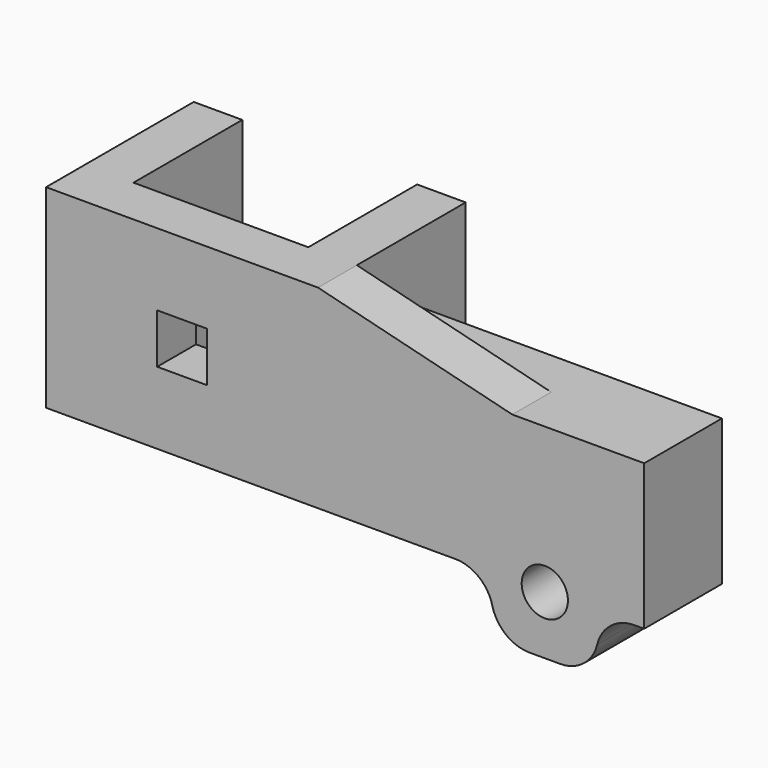
from build123d import *

# Parameters (mm, degrees)
F0_W      = 35.56
F0_H      = 32.258
F1_DEPTH  = 12.7
F2_R      = 3.25
F3_DEPTH  = 32.259
F4_W      = 6.5
F4_H      = 6.5
F5_DEPTH  = 25.4
F6_W      = 42.65
F6_H      = 12.7
F7_DEPTH  = 19.05
F9_DEPTH  = 6.35
F10_W     = 14
F10_H     = 12.7
F11_DEPTH = 7.62
F12_R     = 5
F13_R     = 3.025
F14_DEPTH = 12.701
F15_R     = 3.025
F16_DEPTH = 4
F17_R     = 5
F19_DEPTH = 50.8
F20_W     = 15.96225
F20_H     = 9.625087
F21_DEPTH = 50.8


with BuildPart() as f1:
    # F0 (on Top) → F1 (new body, symmetric)
    with BuildSketch(Plane.XY):
        Rectangle(F0_W, F0_H)
        Polygon((11.43, 9.779), (11.43, -9.779), (-11.43, -9.779), (-11.43, 9.779), (-7.366, 9.779), (-7.366, 3.937), (4.826, 3.937), (4.826, 9.779), align=None, mode=Mode.SUBTRACT)
    extrude(amount=F1_DEPTH, both=True)

    # F2 (on face) → F3 (cut, through all)
    with BuildSketch(Plane.XZ.offset(16.129)):
        Circle(F2_R)
    extrude(amount=-F3_DEPTH, mode=Mode.SUBTRACT)

    # F4 (on face) → F5 (cut)
    with BuildSketch(Plane.XZ.offset(16.129)):
        Rectangle(F4_W, F4_H)
    extrude(amount=-F5_DEPTH, mode=Mode.SUBTRACT)

    # F6 (on face) → F7 (join)
    with BuildSketch(Plane(origin=(0, 0, -12.7), x_dir=(1, 0, 0), z_dir=(0, 0, -1))):
        with Locations((39.105, 9.779)):
            Rectangle(F6_W, F6_H)
    extrude(amount=-F7_DEPTH)

    # F8 (on face) → F9 (join)
    with BuildSketch(Plane.XZ.offset(16.129)):
        Polygon((17.78, 12.7), (17.78, 6.35), (43.18, 6.35), align=None)
    extrude(amount=-F9_DEPTH)

    # F10 (on face) → F11 (join)
    with BuildSketch(Plane(origin=(0, 0, -12.7), x_dir=(1, 0, 0), z_dir=(0, 0, -1))):
        with Locations((47.43, 9.779)):
            Rectangle(F10_W, F10_H)
    extrude(amount=F11_DEPTH)

    # F12
    f12_edges = [f1.edges().sort_by_distance(p)[0] for p in [
        (40.43, -9.779, -20.32),
        (54.43, -9.779, -20.32),
    ]]
    fillet(f12_edges, radius=F12_R)

    # F13 (on face) → F14 (cut, through all)
    with BuildSketch(Plane(origin=(0, -3.429, 0), x_dir=(-1, 0, 0), z_dir=(0, 1, 0))):
        with Locations((-47.43, -12.7)):
            Circle(F13_R)
    extrude(amount=-F14_DEPTH, mode=Mode.SUBTRACT)

    # F15 (on face) → F16 (cut)
    with BuildSketch(Plane(origin=(0, -3.429, 0), x_dir=(-1, 0, 0), z_dir=(0, 1, 0))):
        Polygon((-50.316751, -17.7), (-44.543249, -17.7), (-41.656497, -12.7), (-44.543249, -7.7), (-50.316751, -7.7), (-53.203503, -12.7), align=None)
        with Locations((-47.43, -12.7)):
            Circle(F15_R, mode=Mode.SUBTRACT)
    extrude(amount=-F16_DEPTH, mode=Mode.SUBTRACT)

    # F17
    f17_edges = [f1.edges().sort_by_distance(p)[0] for p in [
        (54.43, -9.779, -12.7),
        (40.43, -9.779, -12.7),
    ]]
    fillet(f17_edges, radius=F17_R)

    # F18 (on face) → F19 (cut)
    with BuildSketch(Plane.XY.offset(12.7)):
        Polygon((-17.78, 16.129), (-17.78, 8.001), (-11.43, 8.001), (-11.43, 9.779), (-7.366, 9.779), (-7.366, 8.001), (4.826, 8.001), (4.826, 9.779), (11.43, 9.779), (11.43, 8.001), (17.78, 8.001), (17.78, 16.129), align=None)
    extrude(amount=-F19_DEPTH, mode=Mode.SUBTRACT)

    # F20 (on face) → F21 (cut)
    with BuildSketch(Plane.XY.offset(12.7)):
        with Locations((0, 6.352621)):
            Rectangle(F20_W, F20_H)
    extrude(amount=-F21_DEPTH, mode=Mode.SUBTRACT)


solid = f1.part
